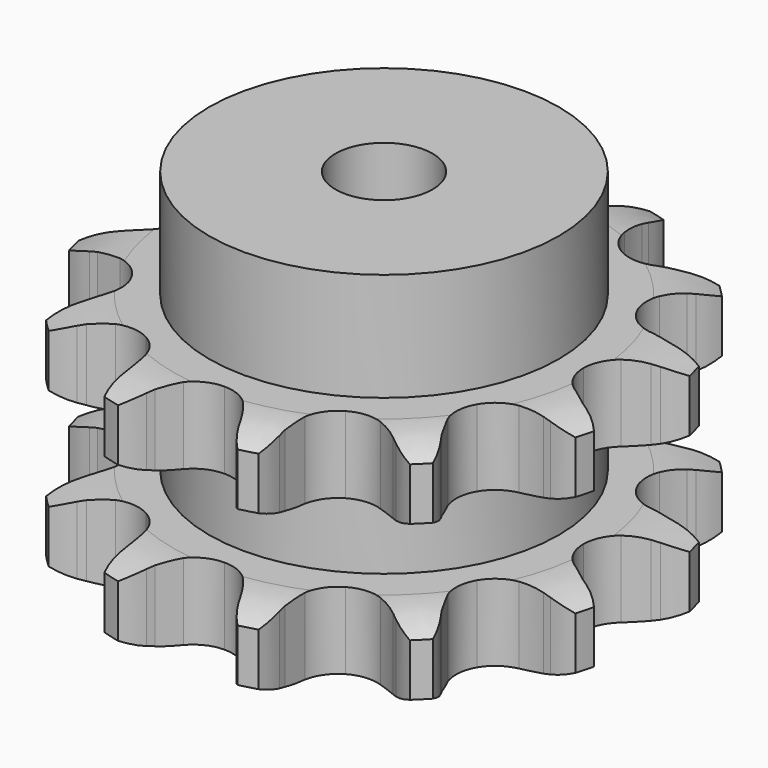
from build123d import *

# Parameters (mm, degrees)
PAD_DEPTH         = 47.7
SKETCH001_R       = 36
PAD001_DEPTH      = 70
SKETCH002_R       = 10
POCKET_DEPTH      = 0.0010001
POCKET_DEPTH_BACK = 70.001


with BuildPart() as part:
    # Sprocket → Pad (new body)
    with BuildSketch(Plane.XY):
        with BuildLine():
            ThreePointArc((-14.7094338634, 54.8963545289), (-11.6952924594, 52.4943994553), (-9.4886484794, 49.3344692465))
            Line((-9.4886484794, 49.3344692465), (-8.7858482409, 47.9350789167))
            ThreePointArc((-8.7858482409, 47.9350789167), (-7.5809827252, 45.8481906272), (-6.141991136, 43.9152894785))
            ThreePointArc((-6.141991136, 43.9152894785), (-3.388468699, 41.8024374006), (0, 41.0512319755))
            ThreePointArc((0, 41.0512319755), (3.388468699, 41.8024374006), (6.141991136, 43.9152894785))
            ThreePointArc((6.141991136, 43.9152894785), (7.5809827252, 45.8481906272), (8.7858482409, 47.9350789167))
            Line((8.7858482409, 47.9350789167), (9.4886484794, 49.3344692465))
            ThreePointArc((9.4886484794, 49.3344692465), (11.6952924594, 52.4943994553), (14.7094338634, 54.8963545289))
            ThreePointArc((14.7094338634, 54.8963545289), (16.1187793531, 51.3091297144), (16.4498239925, 47.4692278894))
            Line((16.4498239925, 47.4692278894), (16.3587716879, 45.9059201947))
            ThreePointArc((16.3587716879, 45.9059201947), (16.3587716879, 43.4961891632), (16.6385243856, 41.102751871))
            ThreePointArc((16.6385243856, 41.102751871), (17.966718727, 37.8962070785), (20.5256159877, 35.5514097474))
            ThreePointArc((20.5256159877, 35.5514097474), (23.8357186735, 34.5077383795), (27.2767650929, 34.9607607349))
            Line((27.2767650929, 34.9607607349), (31.5763072287, 37.1200719538))
            ThreePointArc((31.5763072287, 37.1200719538), (32.2223447142, 37.5626890682), (32.884645254, 37.98057941))
            ThreePointArc((32.884645254, 37.98057941), (36.3756201022, 39.6138372549), (40.1869206654, 40.1869206654))
            ThreePointArc((40.1869206654, 40.1869206654), (39.6138372549, 36.3756201022), (37.98057941, 32.884645254))
            Line((37.98057941, 32.884645254), (37.1200719538, 31.5763072287))
            ThreePointArc((37.1200719538, 31.5763072287), (35.9152064381, 29.4894189392), (34.9607607349, 27.2767650929))
            ThreePointArc((34.9607607349, 27.2767650929), (34.5077383795, 23.8357186735), (35.5514097474, 20.5256159877))
            ThreePointArc((35.5514097474, 20.5256159877), (37.8962070785, 17.966718727), (41.102751871, 16.6385243856))
            Line((41.102751871, 16.6385243856), (45.9059201947, 16.3587716879))
            ThreePointArc((45.9059201947, 16.3587716879), (46.6867136261, 16.4190706104), (47.4692278894, 16.4498239925))
            ThreePointArc((47.4692278894, 16.4498239925), (51.3091297144, 16.1187793531), (54.8963545289, 14.7094338634))
            ThreePointArc((54.8963545289, 14.7094338634), (52.4943994553, 11.6952924594), (49.3344692465, 9.4886484794))
            Line((49.3344692465, 9.4886484794), (47.9350789167, 8.7858482409))
            ThreePointArc((47.9350789167, 8.7858482409), (45.8481906272, 7.5809827252), (43.9152894785, 6.141991136))
            ThreePointArc((43.9152894785, 6.141991136), (41.8024374006, 3.388468699), (41.0512319755, 0))
            ThreePointArc((41.0512319755, 0), (41.8024374006, -3.388468699), (43.9152894785, -6.141991136))
            Line((43.9152894785, -6.141991136), (47.9350789167, -8.7858482409))
            ThreePointArc((47.9350789167, -8.7858482409), (48.6414153247, -9.1240245579), (49.3344692465, -9.4886484794))
            ThreePointArc((49.3344692465, -9.4886484794), (52.4943994553, -11.6952924594), (54.8963545289, -14.7094338634))
            ThreePointArc((54.8963545289, -14.7094338634), (51.3091297144, -16.1187793531), (47.4692278894, -16.4498239925))
            Line((47.4692278894, -16.4498239925), (45.9059201947, -16.3587716879))
            ThreePointArc((45.9059201947, -16.3587716879), (43.4961891632, -16.3587716879), (41.102751871, -16.6385243856))
            ThreePointArc((41.102751871, -16.6385243856), (37.8962070785, -17.966718727), (35.5514097474, -20.5256159877))
            ThreePointArc((35.5514097474, -20.5256159877), (34.5077383795, -23.8357186735), (34.9607607349, -27.2767650929))
            Line((34.9607607349, -27.2767650929), (37.1200719538, -31.5763072287))
            ThreePointArc((37.1200719538, -31.5763072287), (37.5626890682, -32.2223447142), (37.98057941, -32.884645254))
            ThreePointArc((37.98057941, -32.884645254), (39.6138372549, -36.3756201022), (40.1869206654, -40.1869206654))
            ThreePointArc((40.1869206654, -40.1869206654), (36.3756201022, -39.6138372549), (32.884645254, -37.98057941))
            Line((32.884645254, -37.98057941), (31.5763072287, -37.1200719538))
            ThreePointArc((31.5763072287, -37.1200719538), (29.4894189392, -35.9152064381), (27.2767650929, -34.9607607349))
            ThreePointArc((27.2767650929, -34.9607607349), (23.8357186735, -34.5077383795), (20.5256159877, -35.5514097474))
            ThreePointArc((20.5256159877, -35.5514097474), (17.966718727, -37.8962070785), (16.6385243856, -41.102751871))
            Line((16.6385243856, -41.102751871), (16.3587716879, -45.9059201947))
            ThreePointArc((16.3587716879, -45.9059201947), (16.4190706104, -46.6867136261), (16.4498239925, -47.4692278894))
            ThreePointArc((16.4498239925, -47.4692278894), (16.1187793531, -51.3091297144), (14.7094338634, -54.8963545289))
            ThreePointArc((14.7094338634, -54.8963545289), (11.6952924594, -52.4943994553), (9.4886484794, -49.3344692465))
            Line((9.4886484794, -49.3344692465), (8.7858482409, -47.9350789167))
            ThreePointArc((8.7858482409, -47.9350789167), (7.5809827252, -45.8481906272), (6.141991136, -43.9152894785))
            ThreePointArc((6.141991136, -43.9152894785), (3.388468699, -41.8024374006), (0, -41.0512319755))
            ThreePointArc((0, -41.0512319755), (-3.388468699, -41.8024374006), (-6.141991136, -43.9152894785))
            Line((-6.141991136, -43.9152894785), (-8.7858482409, -47.9350789167))
            ThreePointArc((-8.7858482409, -47.9350789167), (-9.1240245579, -48.6414153247), (-9.4886484794, -49.3344692465))
            ThreePointArc((-9.4886484794, -49.3344692465), (-11.6952924594, -52.4943994553), (-14.7094338634, -54.8963545289))
            ThreePointArc((-14.7094338634, -54.8963545289), (-16.1187793531, -51.3091297144), (-16.4498239925, -47.4692278894))
            Line((-16.4498239925, -47.4692278894), (-16.3587716879, -45.9059201947))
            ThreePointArc((-16.3587716879, -45.9059201947), (-16.3587716879, -43.4961891632), (-16.6385243856, -41.102751871))
            ThreePointArc((-16.6385243856, -41.102751871), (-17.966718727, -37.8962070785), (-20.5256159877, -35.5514097474))
            ThreePointArc((-20.5256159877, -35.5514097474), (-23.8357186735, -34.5077383795), (-27.2767650929, -34.9607607349))
            Line((-27.2767650929, -34.9607607349), (-31.5763072287, -37.1200719538))
            ThreePointArc((-31.5763072287, -37.1200719538), (-32.2223447142, -37.5626890682), (-32.884645254, -37.98057941))
            ThreePointArc((-32.884645254, -37.98057941), (-36.3756201022, -39.6138372549), (-40.1869206654, -40.1869206654))
            ThreePointArc((-40.1869206654, -40.1869206654), (-39.6138372549, -36.3756201022), (-37.98057941, -32.884645254))
            Line((-37.98057941, -32.884645254), (-37.1200719538, -31.5763072287))
            ThreePointArc((-37.1200719538, -31.5763072287), (-35.9152064381, -29.4894189392), (-34.9607607349, -27.2767650929))
            ThreePointArc((-34.9607607349, -27.2767650929), (-34.5077383795, -23.8357186735), (-35.5514097474, -20.5256159877))
            ThreePointArc((-35.5514097474, -20.5256159877), (-37.8962070785, -17.966718727), (-41.102751871, -16.6385243856))
            Line((-41.102751871, -16.6385243856), (-45.9059201947, -16.3587716879))
            ThreePointArc((-45.9059201947, -16.3587716879), (-46.6867136261, -16.4190706104), (-47.4692278894, -16.4498239925))
            ThreePointArc((-47.4692278894, -16.4498239925), (-51.3091297144, -16.1187793531), (-54.8963545289, -14.7094338634))
            ThreePointArc((-54.8963545289, -14.7094338634), (-52.4943994553, -11.6952924594), (-49.3344692465, -9.4886484794))
            Line((-49.3344692465, -9.4886484794), (-47.9350789167, -8.7858482409))
            ThreePointArc((-47.9350789167, -8.7858482409), (-45.8481906272, -7.5809827252), (-43.9152894785, -6.141991136))
            ThreePointArc((-43.9152894785, -6.141991136), (-41.8024374006, -3.388468699), (-41.0512319755, 0))
            ThreePointArc((-41.0512319755, 0), (-41.8024374006, 3.388468699), (-43.9152894785, 6.141991136))
            Line((-43.9152894785, 6.141991136), (-47.9350789167, 8.7858482409))
            ThreePointArc((-47.9350789167, 8.7858482409), (-48.6414153247, 9.1240245579), (-49.3344692465, 9.4886484794))
            ThreePointArc((-49.3344692465, 9.4886484794), (-52.4943994553, 11.6952924594), (-54.8963545289, 14.7094338634))
            ThreePointArc((-54.8963545289, 14.7094338634), (-51.3091297144, 16.1187793531), (-47.4692278894, 16.4498239925))
            Line((-47.4692278894, 16.4498239925), (-45.9059201947, 16.3587716879))
            ThreePointArc((-45.9059201947, 16.3587716879), (-43.4961891632, 16.3587716879), (-41.102751871, 16.6385243856))
            ThreePointArc((-41.102751871, 16.6385243856), (-37.8962070785, 17.966718727), (-35.5514097474, 20.5256159877))
            ThreePointArc((-35.5514097474, 20.5256159877), (-34.5077383795, 23.8357186735), (-34.9607607349, 27.2767650929))
            Line((-34.9607607349, 27.2767650929), (-37.1200719538, 31.5763072287))
            ThreePointArc((-37.1200719538, 31.5763072287), (-37.5626890682, 32.2223447142), (-37.98057941, 32.884645254))
            ThreePointArc((-37.98057941, 32.884645254), (-39.6138372549, 36.3756201022), (-40.1869206654, 40.1869206654))
            ThreePointArc((-40.1869206654, 40.1869206654), (-36.3756201022, 39.6138372549), (-32.884645254, 37.98057941))
            Line((-32.884645254, 37.98057941), (-31.5763072287, 37.1200719538))
            ThreePointArc((-31.5763072287, 37.1200719538), (-29.4894189392, 35.9152064381), (-27.2767650929, 34.9607607349))
            ThreePointArc((-27.2767650929, 34.9607607349), (-23.8357186735, 34.5077383795), (-20.5256159877, 35.5514097474))
            ThreePointArc((-20.5256159877, 35.5514097474), (-17.966718727, 37.8962070785), (-16.6385243856, 41.102751871))
            Line((-16.6385243856, 41.102751871), (-16.3587716879, 45.9059201947))
            ThreePointArc((-16.3587716879, 45.9059201947), (-16.4190706104, 46.6867136261), (-16.4498239925, 47.4692278894))
            ThreePointArc((-16.4498239925, 47.4692278894), (-16.1187793531, 51.3091297144), (-14.7094338634, 54.8963545289))
        make_face()
    extrude(amount=PAD_DEPTH)

    # Sketch → Groove (revolve, cut)
    with BuildSketch(Plane.XZ):
        with BuildLine():
            ThreePointArc((43.3757022694, 0), (49.0765793949, 0.6326982121), (54.5, 2.5))
            Line((54.5, 2.5), (54.5, 13.3))
            ThreePointArc((54.5, 13.3), (49.0765793949, 15.1673017879), (43.3757022694, 15.8))
            Line((36, 15.8), (43.3757022694, 15.8))
            Line((36, 31.9), (36, 15.8))
            Line((43.3757022694, 31.9), (36, 31.9))
            ThreePointArc((43.3757022694, 31.9), (49.0765793949, 32.5326982121), (54.5, 34.4))
            Line((54.5, 34.4), (54.5, 45.2))
            ThreePointArc((54.5, 45.2), (49.0765793949, 47.0673017879), (43.3757022694, 47.7))
            Line((43.3757022694, 47.7), (64.5, 47.7))
            Line((64.5, 47.7), (64.5, 0))
            Line((43.3757022694, 0), (64.5, 0))
        make_face()
    revolve(axis=Axis((0, 0, 0), (0, 0, 1)), mode=Mode.SUBTRACT)

    # Sketch001 → Pad001 (join)
    with BuildSketch(Plane.XY):
        Circle(SKETCH001_R)
    extrude(amount=PAD001_DEPTH)

    # Sketch002 → Pocket (cut, two sides)
    with BuildSketch(Plane.XY) as pocket_sk:
        Circle(SKETCH002_R)
    extrude(amount=-POCKET_DEPTH, mode=Mode.SUBTRACT)
    extrude(pocket_sk.sketch, amount=POCKET_DEPTH_BACK, mode=Mode.SUBTRACT)


solid = part.part
